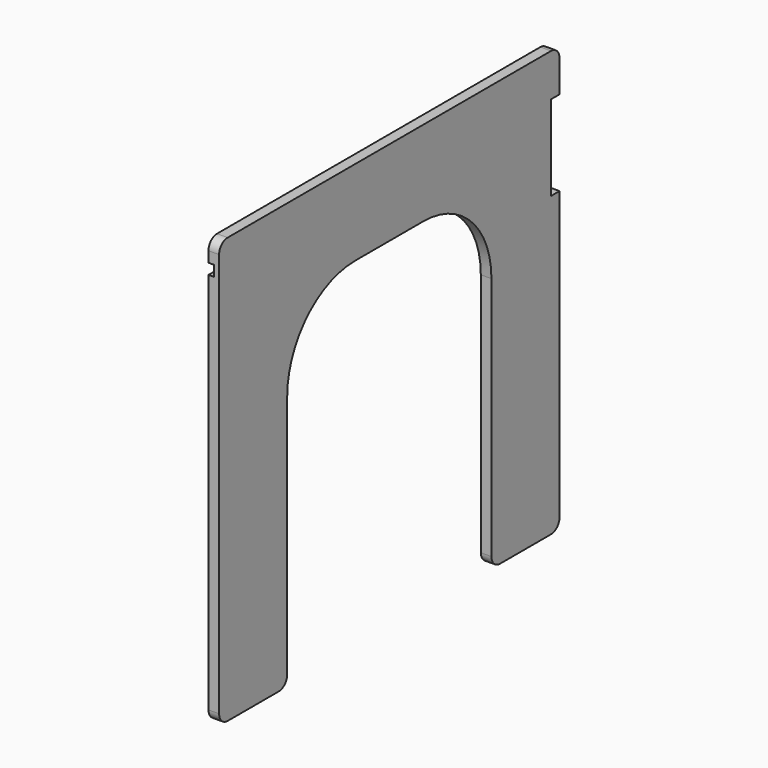
from build123d import *

# Parameters (mm, degrees)
F1_DEPTH = 12.7
F2_W     = 508
F2_H     = 12.7
F3_DEPTH = 6.35


with BuildPart() as f1:
    # F0 (on Right) → F1 (new body)
    with BuildSketch(Plane.YZ):
        with BuildLine():
            ThreePointArc((-101.6, 12.7), (-97.880256, 3.719744), (-88.9, 0))
            Line((-88.9, 0), (-12.7, 0))
            ThreePointArc((-12.7, 0), (-3.719744, 3.719744), (0, 12.7))
            Line((0, 12.7), (0, 304.8))
            ThreePointArc((0, 304.8), (29.757951, 376.642049), (101.6, 406.4))
            Line((101.6, 406.4), (203.2, 406.4))
            ThreePointArc((203.2, 406.4), (275.042049, 376.642049), (304.8, 304.8))
            Line((304.8, 304.8), (304.8, 12.7))
            ThreePointArc((304.8, 12.7), (308.519744, 3.719744), (317.5, 0))
            Line((317.5, 0), (393.7, 0))
            ThreePointArc((393.7, 0), (402.680256, 3.719744), (406.4, 12.7))
            Line((406.4, 12.7), (406.4, 355.6))
            Line((406.4, 355.6), (393.7, 355.6))
            Line((393.7, 355.6), (393.7, 457.2))
            Line((393.7, 457.2), (406.4, 457.2))
            Line((406.4, 457.2), (406.4, 495.3))
            ThreePointArc((406.4, 495.3), (402.680256, 504.280256), (393.7, 508))
            Line((393.7, 508), (-88.9, 508))
            ThreePointArc((-88.9, 508), (-97.880256, 504.280256), (-101.6, 495.3))
            Line((-101.6, 495.3), (-101.6, 12.7))
        make_face()
    extrude(amount=F1_DEPTH)

    # F2 (on face) → F3 (cut)
    with BuildSketch(Plane(origin=(0, 0, 0), x_dir=(0, -1, 0), z_dir=(-1, 0, 0))):
        with Locations((-152.4, 476.25)):
            Rectangle(F2_W, F2_H)
    extrude(amount=-F3_DEPTH, mode=Mode.SUBTRACT)


solid = f1.part
